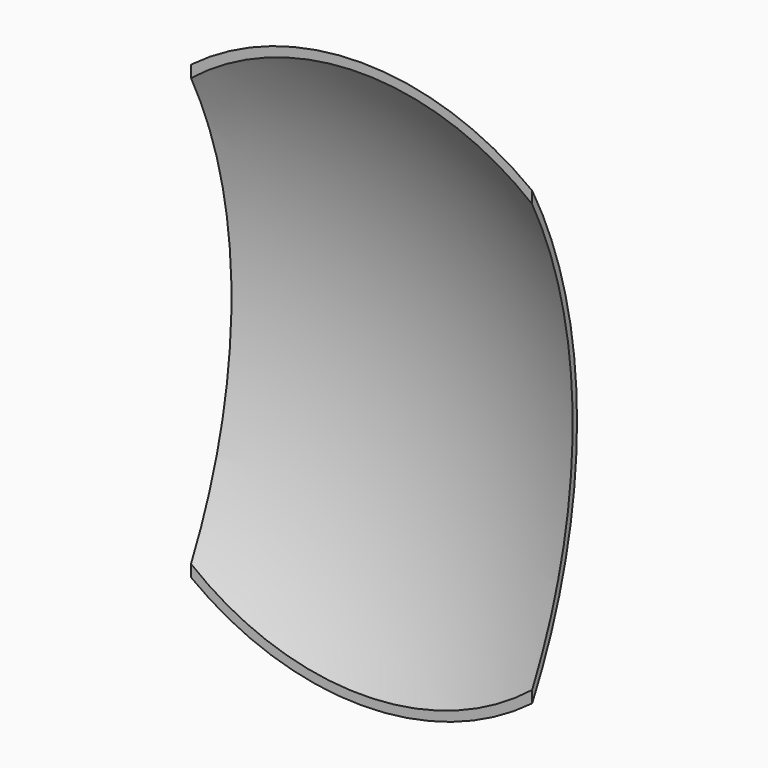
from build123d import *

# Parameters (mm, degrees)
BOX002_W        = 10
BOX002_H        = 10
BOX002_DEPTH    = 40
BOX001_W        = 10
BOX001_H        = 10
BOX001_DEPTH    = 40
BOX_W           = 60
BOX_H           = 40
BOX_DEPTH       = 60
SPHERE001_ANGLE = 180
SPHERE_ANGLE    = 180


with BuildPart() as cube002:
    # Box002 → Box002 (new body)
    with BuildSketch(Plane(origin=(-20, 20, -20), x_dir=(1, 0, 0), z_dir=(0, 0, 1))):
        with Locations((5, 5)):
            Rectangle(BOX002_W, BOX002_H)
    extrude(amount=BOX002_DEPTH)


with BuildPart() as cube001:
    # Box001 → Box001 (new body)
    with BuildSketch(Plane(origin=(10, 20, -20), x_dir=(1, 0, 0), z_dir=(0, 0, 1))):
        with Locations((5, 5)):
            Rectangle(BOX001_W, BOX001_H)
    extrude(amount=BOX001_DEPTH)


with BuildPart() as cube:
    # Box → Box (new body)
    with BuildSketch(Plane(origin=(-30, -15, -30), x_dir=(1, 0, 0), z_dir=(0, 0, 1))):
        with Locations((30, 20)):
            Rectangle(BOX_W, BOX_H)
    extrude(amount=BOX_DEPTH)


with BuildPart() as inner:
    # Sphere001 → Sphere001 (revolve)
    with BuildSketch(Plane.XZ):
        with BuildLine():
            ThreePointArc((0, -29.7), (29.7, 0), (0, 29.7))
            Line((0, 29.7), (0, -29.7))
        make_face()
    revolve(axis=Axis((0, 0, 0), (0, 0, 1)), revolution_arc=SPHERE001_ANGLE)


with BuildPart() as cutmirror:
    # Sphere → Sphere (revolve)
    with BuildSketch(Plane.XZ):
        with BuildLine():
            ThreePointArc((0, -30), (30, 0), (0, 30))
            Line((0, 30), (0, -30))
        make_face()
    revolve(axis=Axis((0, 0, 0), (0, 0, 1)), revolution_arc=SPHERE_ANGLE)

    # Cut: cut Inner
    add(inner.part, mode=Mode.SUBTRACT)

    # Cut001: cut Cube
    add(cube.part, mode=Mode.SUBTRACT)

    # Cut002: cut Cube001
    add(cube001.part, mode=Mode.SUBTRACT)

    # Cut003: cut Cube002
    add(cube002.part, mode=Mode.SUBTRACT)


solid = cutmirror.part
